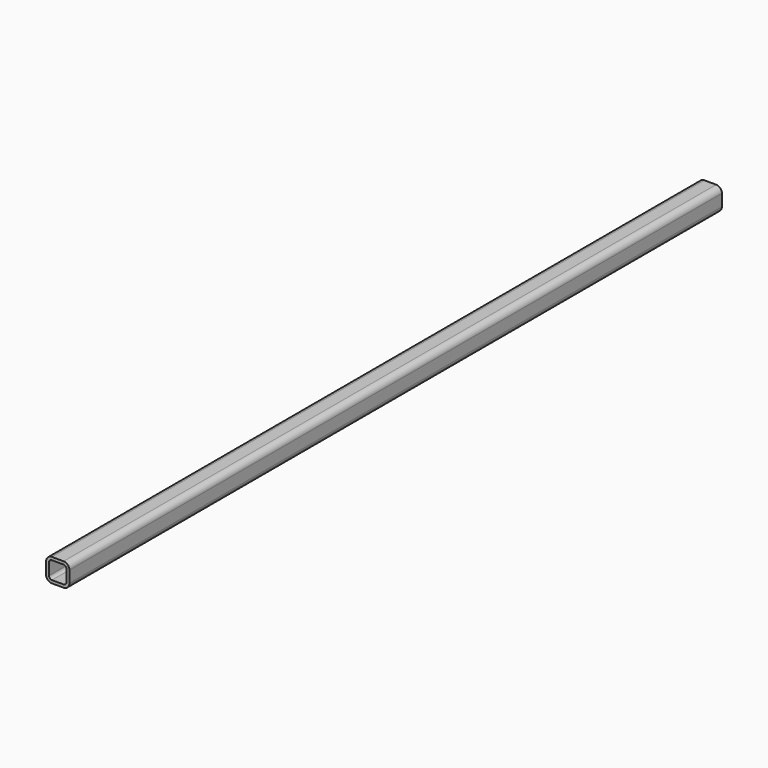
from build123d import *

# Parameters (mm, degrees)
F1_W     = 50.8
F1_H     = 50.8
F2_DEPTH = 1778
F3_R     = 12.7
F4_T     = -6.35


with BuildPart() as f2:
    # F1 (on face) → F2 (new body)
    with BuildSketch(Plane.XZ):
        with Locations((25.4, 25.4)):
            Rectangle(F1_W, F1_H)
    extrude(amount=F2_DEPTH)

    # F3
    f3_edges = [f2.edges().sort_by_distance(p)[0] for p in [
        (0, -889, 50.8),
        (0, -889, 0),
        (50.8, -889, 50.8),
        (50.8, -889, 0),
    ]]
    fillet(f3_edges, radius=F3_R)

    # F4
    f4_openings = [f2.faces().sort_by_distance(p)[0] for p in [
        (25.4, -1778, 25.4),
    ]]
    offset(amount=F4_T, openings=f4_openings)


solid = f2.part
